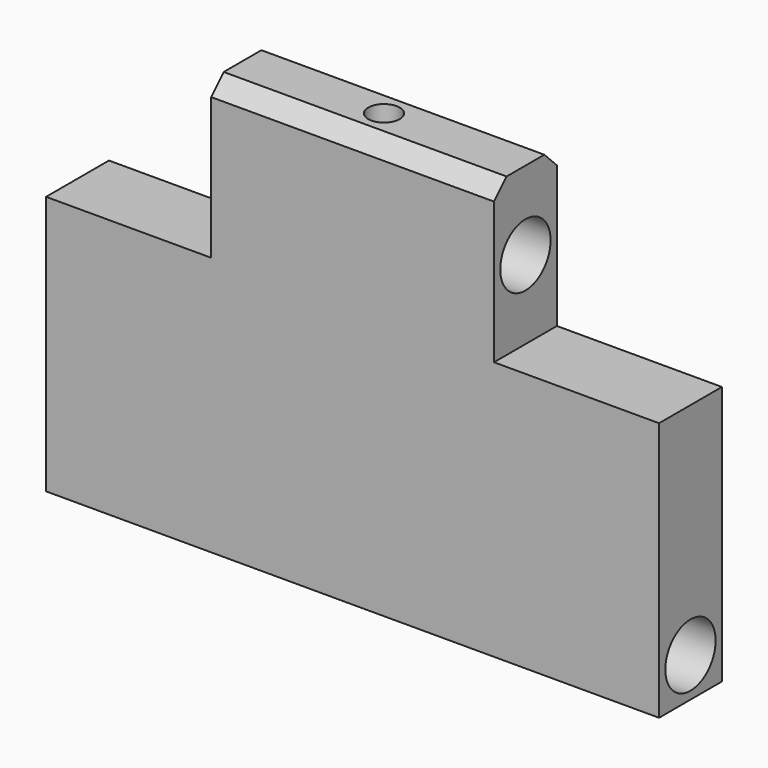
from build123d import *

# Parameters (mm, degrees)
F1_DEPTH  = 10
F2_R      = 4
F3_DEPTH  = 38
F4_R      = 4
F5_DEPTH  = 70
F8_DEPTH  = 10
F9_R      = 4
F10_DEPTH = 40
F11_R     = 4
F12_DEPTH = 100
F13_DEPTH = 5
F14_R     = 2
F15_DEPTH = 10
F16_SIZE  = 2


with BuildPart() as f1:
    # F0 (on Front) → F1 (new body)
    with BuildSketch(Plane.XZ):
        Polygon((19, 24), (-19, 24), (-19, 9), (-35, 9), (-35, -24), (35, -24), (35, 9), (19, 9), align=None)
    extrude(amount=F1_DEPTH)

    # F2 (on face) → F3 (cut)
    with BuildSketch(Plane.YZ.offset(19)):
        with Locations((-5, 19)):
            Circle(F2_R)
    extrude(amount=-F3_DEPTH, mode=Mode.SUBTRACT)

    # F4 (on face) → F5 (cut)
    with BuildSketch(Plane.YZ.offset(35)):
        with Locations((-5, -19)):
            Circle(F4_R)
    extrude(amount=-F5_DEPTH, mode=Mode.SUBTRACT)


with BuildPart() as f8:
    # F7 (on Front) → F8 (new body)
    with BuildSketch(Plane.XZ):
        Polygon((18, 24), (-18, 24), (-18, 9), (-39, 9), (-39, -24), (39, -24), (39, 9), (18, 9), align=None)
        Polygon((18, 24), (-18, 24), (-18, 9), (-39, 9), (-39, -24), (39, -24), (39, 9), (18, 9), align=None)
    extrude(amount=F8_DEPTH)

    # F9 (on face) → F10 (cut)
    with BuildSketch(Plane.YZ.offset(18)):
        with Locations((-5, 19)):
            Circle(F9_R)
    extrude(amount=-F10_DEPTH, mode=Mode.SUBTRACT)

    # F11 (on face) → F12 (cut)
    with BuildSketch(Plane.YZ.offset(39)):
        with Locations((-5, -19)):
            Circle(F11_R)
    extrude(amount=-F12_DEPTH, mode=Mode.SUBTRACT)

    # F13 (add): a face of the model
    f13_faces = [f8.faces().sort_by_distance(p)[0] for p in [
        (0, -5, 24),
    ]]
    extrude(f13_faces, amount=F13_DEPTH)

    # F14 (on face) → F15 (cut)
    with BuildSketch(Plane.XY.offset(29)):
        with Locations((0, -5)):
            Circle(F14_R)
    extrude(amount=-F15_DEPTH, mode=Mode.SUBTRACT)

    # F16
    f16_edges = [f8.edges().sort_by_distance(p)[0] for p in [
        (0, -10, 29),
        (0, 0, 29),
    ]]
    chamfer(f16_edges, length=F16_SIZE)


solid = f8.part
